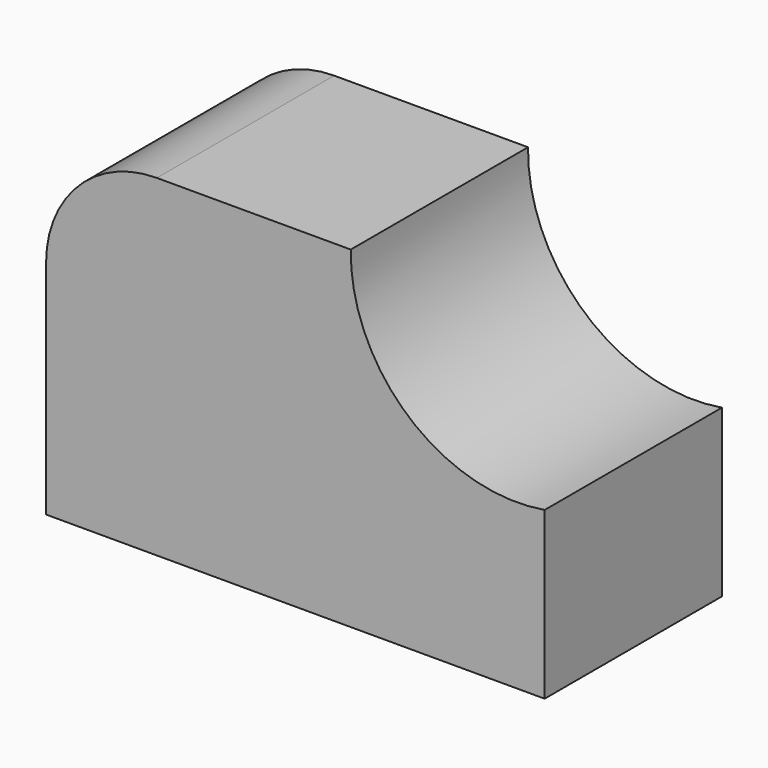
from build123d import *

# Parameters (mm, degrees)
F0_W     = 57.15
F0_H     = 38.1
F1_DEPTH = 25.4
F2_R     = 12.7
F4_DEPTH = 25.4


with BuildPart() as f1:
    # F0 (on Front) → F1 (new body)
    with BuildSketch(Plane.XZ):
        with Locations((28.575, 19.05)):
            Rectangle(F0_W, F0_H)
    extrude(amount=F1_DEPTH)

    # F2
    f2_edges = [f1.edges().sort_by_distance(p)[0] for p in [
        (0, -12.7, 38.1),
    ]]
    fillet(f2_edges, radius=F2_R)

    # F3 (on face) → F4 (cut)
    with BuildSketch(Plane.XZ.offset(25.4)):
        with BuildLine():
            Line((57.15, 38.1), (34.925, 38.1))
            ThreePointArc((34.925, 38.1), (41.575556, 23.369399), (57.15, 19.05))
            Line((57.15, 19.05), (57.15, 38.1))
        make_face()
    extrude(amount=-F4_DEPTH, mode=Mode.SUBTRACT)


solid = f1.part
